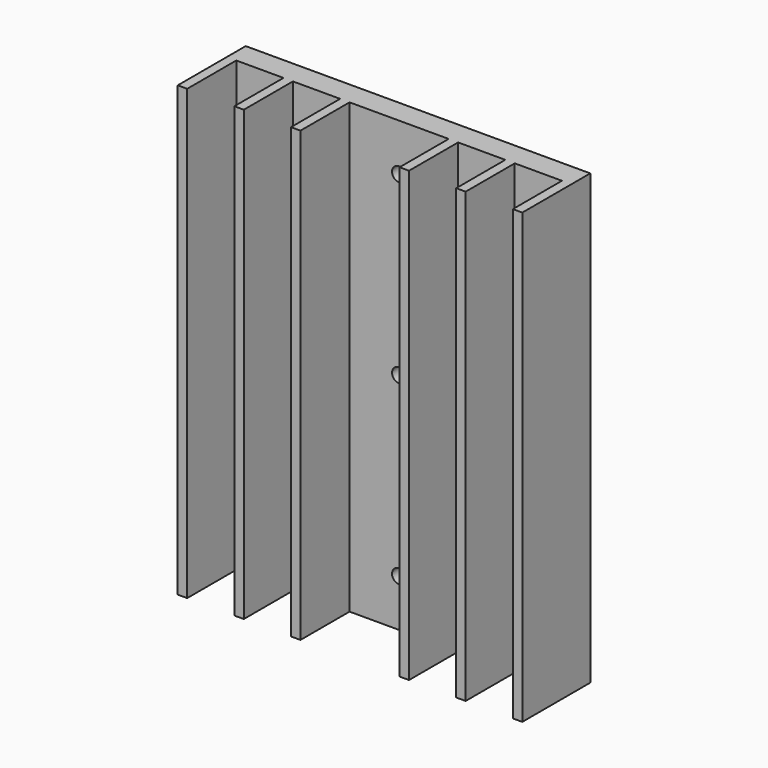
from build123d import *

# Parameters (mm, degrees)
F1_DEPTH = 95
F2_R     = 1.5
F3_DEPTH = 5


with BuildPart() as f1:
    # F0 (on Top) → F1 (new body)
    with BuildSketch(Plane.XY):
        Polygon((36.5, 0), (0, 0), (-36.5, 0), (-36.5, -18), (-34.5, -18), (-34.5, -5), (-24.5, -5), (-24.5, -18), (-22.5, -18), (-22.5, -5), (-12.5, -5), (-12.5, -18), (-10.5, -18), (-10.5, -5), (0, -5), (10.5, -5), (10.5, -18), (12.5, -18), (12.5, -5), (22.5, -5), (22.5, -18), (24.5, -18), (24.5, -5), (34.5, -5), (34.5, -18), (36.5, -18), align=None)
    extrude(amount=F1_DEPTH)

    # F2 (on face) → F3 (cut, through all)
    with BuildSketch(Plane.XZ.offset(5)):
        with Locations((0, 85)):
            Circle(F2_R)
        with Locations((0, 47.5)):
            Circle(F2_R)
        with Locations((0, 10)):
            Circle(F2_R)
    extrude(amount=-F3_DEPTH, mode=Mode.SUBTRACT)


solid = f1.part
